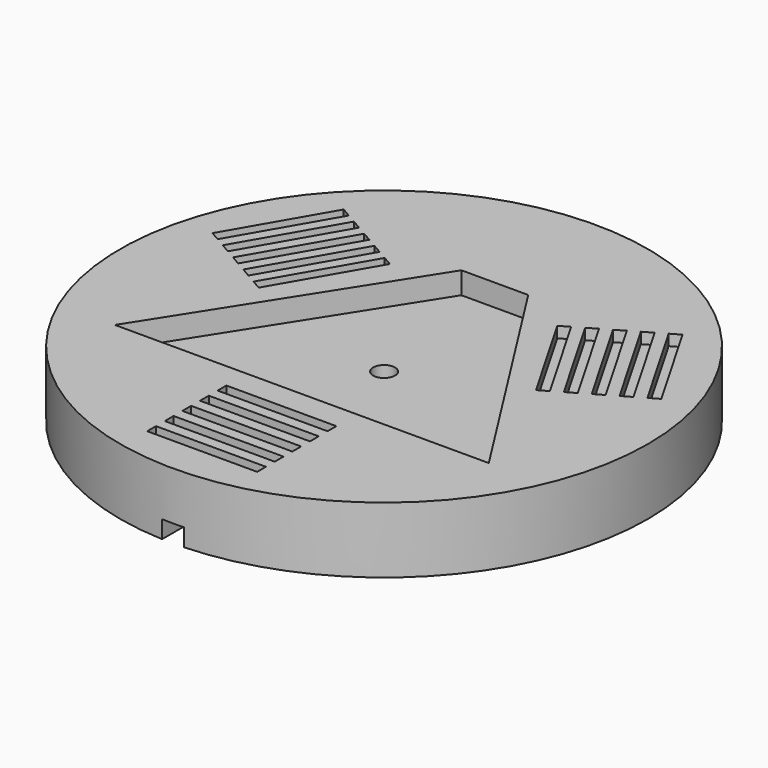
from build123d import *

# Parameters (mm, degrees)
F0_R     = 76.2
F0_R_2   = 3.175
F1_DEPTH = 19.05
F3_DEPTH = 6.35
F4_W     = 31.75
F4_H     = 3.175
F5_DEPTH = 3.175
F6_W     = 6.35
F6_H     = 79.386771
F7_DEPTH = 5.08


with BuildPart() as f1:
    # F0 (on Top) → F1 (new body)
    with BuildSketch(Plane.XY):
        Circle(F0_R)
        Circle(F0_R_2, mode=Mode.SUBTRACT)
    extrude(amount=F1_DEPTH)

    # F2 (on face) → F3 (cut)
    with BuildSketch(Plane.XY.offset(19.05)):
        Polygon((9.652, 39.966119), (-9.652, 39.966119), (-53.975, -29.675636), (53.975, -29.675636), align=None)
    extrude(amount=-F3_DEPTH, mode=Mode.SUBTRACT)

    # F4 (on face) → F5 (cut)
    with BuildSketch(Plane.XY.offset(19.05)):
        with Locations((0, -38.654536)):
            Rectangle(F4_W, F4_H)
        with Locations((0, -45.004536)):
            Rectangle(F4_W, F4_H)
        with Locations((0, -51.354536)):
            Rectangle(F4_W, F4_H)
        with Locations((0, -57.704536)):
            Rectangle(F4_W, F4_H)
        with Locations((0, -64.054536)):
            Rectangle(F4_W, F4_H)
        Polygon((46.16054, 44.984321), (62.03554, 17.488014), (64.785171, 19.075514), (48.910171, 46.571821), align=None)
        Polygon((40.038495, 4.788014), (42.788126, 6.375514), (26.913126, 33.871821), (24.163495, 32.284321), align=None)
        Polygon((59.28591, 15.900514), (43.41091, 43.396821), (40.661279, 41.809321), (56.536279, 14.313014), align=None)
        Polygon((32.412387, 37.046821), (29.662757, 35.459321), (45.537757, 7.963014), (48.287387, 9.550514), align=None)
        Polygon((35.162018, 38.634321), (51.037018, 11.138014), (53.786649, 12.725514), (37.911649, 40.221821), align=None)
        Polygon((-62.037835, 17.48669), (-46.162835, 44.982996), (-48.912466, 46.570496), (-64.787466, 19.07419), align=None)
        Polygon((-24.16579, 32.282996), (-26.91542, 33.870496), (-42.79042, 6.37419), (-40.04079, 4.78669), align=None)
        Polygon((-43.413204, 43.395496), (-59.288204, 15.89919), (-56.538574, 14.31169), (-40.663574, 41.807996), align=None)
        Polygon((-48.289682, 9.54919), (-45.540051, 7.96169), (-29.665051, 35.457996), (-32.414682, 37.045496), align=None)
        Polygon((-51.039312, 11.13669), (-35.164312, 38.632996), (-37.913943, 40.220496), (-53.788943, 12.72419), align=None)
    extrude(amount=-F5_DEPTH, mode=Mode.SUBTRACT)

    # F6 (on face) → F7 (cut)
    with BuildSketch(Plane(origin=(0, 0, 0), x_dir=(1, 0, 0), z_dir=(0, 0, -1))):
        with Locations((0, 39.693385)):
            Rectangle(F6_W, F6_H)
    extrude(amount=-F7_DEPTH, mode=Mode.SUBTRACT)


solid = f1.part
